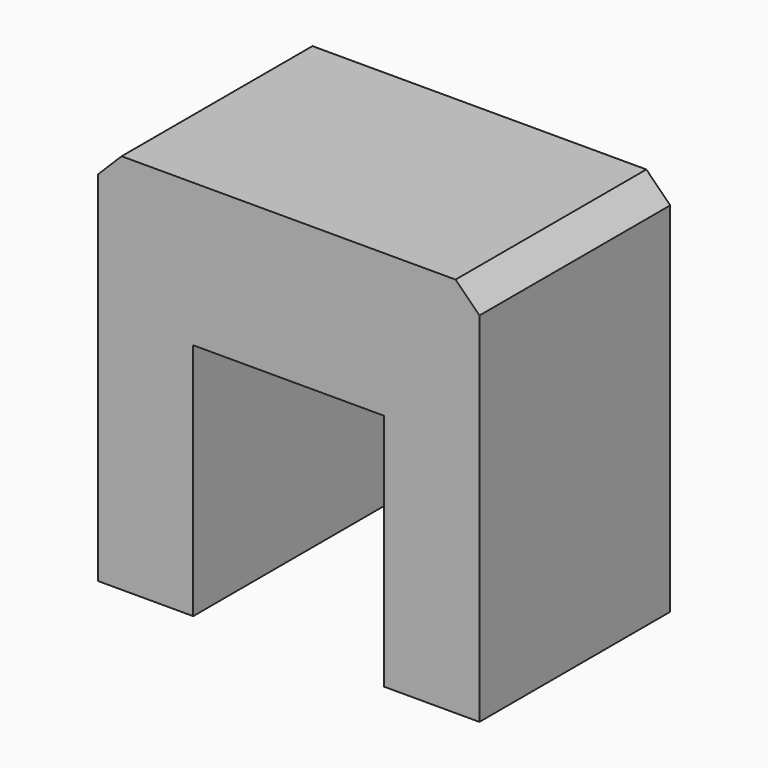
from build123d import *

# Parameters (mm, degrees)
F0_W     = 16
F0_H     = 16
F1_DEPTH = 10
F2_W     = 8
F2_H     = 10
F3_DEPTH = 10.001
F4_SIZE  = 1


with BuildPart() as f1:
    # F0 (on Front) → F1 (new body)
    with BuildSketch(Plane.XZ):
        with Locations((8, 8)):
            Rectangle(F0_W, F0_H)
    extrude(amount=F1_DEPTH)

    # F2 (on face) → F3 (cut, through all)
    with BuildSketch(Plane.XZ.offset(10)):
        with Locations((8, 5)):
            Rectangle(F2_W, F2_H)
    extrude(amount=-F3_DEPTH, mode=Mode.SUBTRACT)

    # F4
    f4_edges = [f1.edges().sort_by_distance(p)[0] for p in [
        (0, -5, 16),
        (16, -5, 16),
    ]]
    chamfer(f4_edges, length=F4_SIZE)


solid = f1.part
